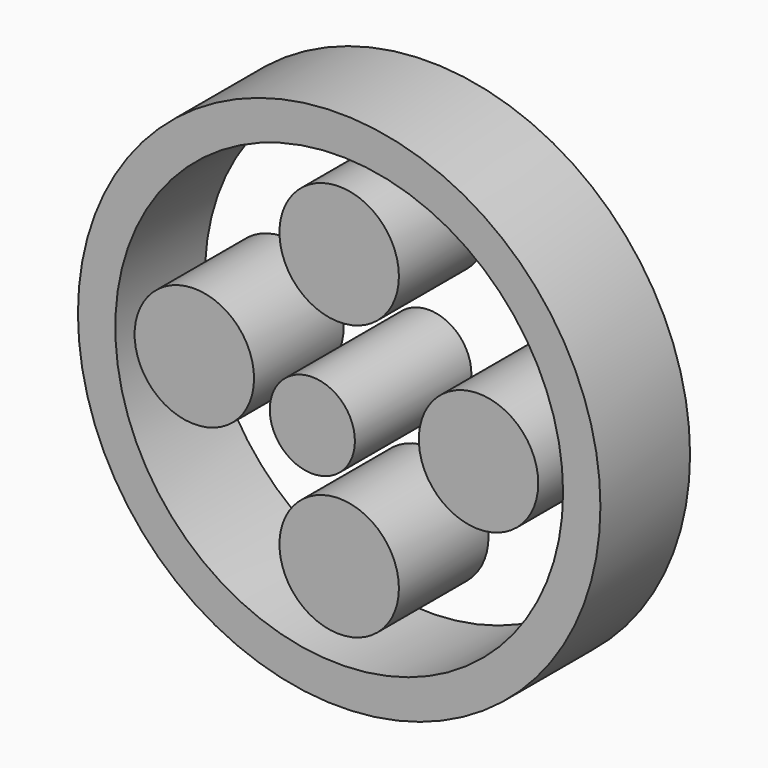
from build123d import *

# Parameters (mm, degrees)
F0_R     = 5.7023
F1_DEPTH = 19.5072
F0_R_2   = 35.0012
F0_R_3   = 29.9974
F0_R_4   = 8.001
F2_DEPTH = 15.0114


with BuildPart() as f1:
    # F0 (on Front) → F1 (new body)
    with BuildSketch(Plane.XZ):
        Circle(F0_R)
    extrude(amount=F1_DEPTH)


with BuildPart() as f2:
    # F0 (on Front) → F2 (new body)
    with BuildSketch(Plane.XZ):
        Circle(F0_R_2)
        Circle(F0_R_3, mode=Mode.SUBTRACT)
        with Locations((-19.408744, 0)):
            Circle(F0_R_4)
        with Locations((0, 18.352285)):
            Circle(F0_R_4)
        with Locations((18.668875, 0)):
            Circle(F0_R_4)
        with Locations((0, -18.445412)):
            Circle(F0_R_4)
    extrude(amount=F2_DEPTH)


solid = Compound([f1.part, f2.part])
